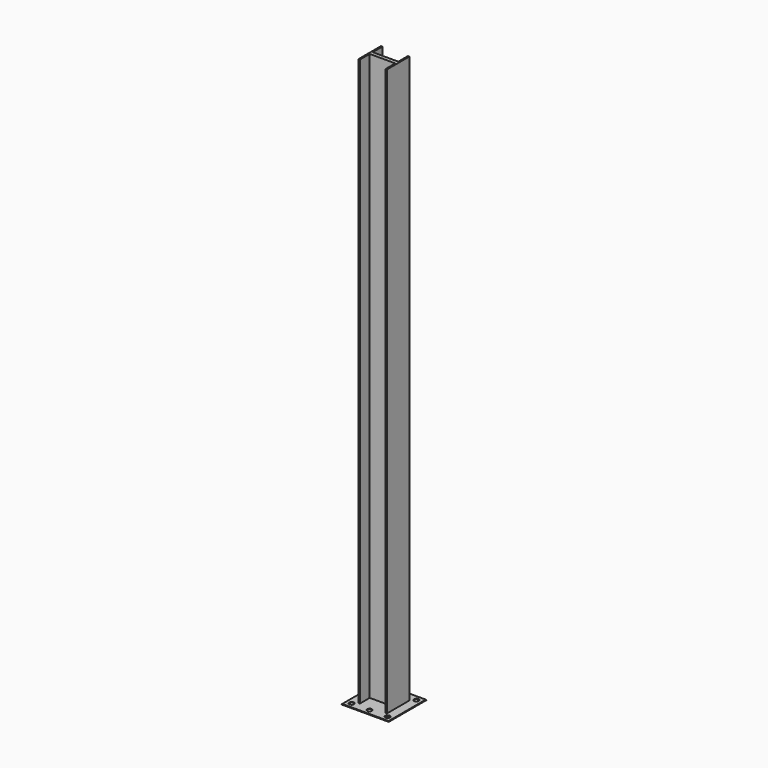
from build123d import *

# Parameters (mm, degrees)
PAD_DEPTH    = 5995
SKETCH001_W  = 500
SKETCH001_H  = 500
PAD001_DEPTH = 5
CHAMFER_SIZE = 4.5
SKETCH002_R  = 25
POCKET_DEPTH = 5
FILLET_R     = 2.5
FILLET001_R  = 2.5
FILLET002_R  = 2.5
FILLET003_R  = 2.5


with BuildPart() as part:
    # Sketch → Pad (new body)
    with BuildSketch(Plane.XY):
        Polygon((135, 20), (-135, 20), (-135, 150), (-150, 150), (-150, -150), (-135, -150), (-135, -20), (135, -20), (135, -150), (150, -150), (150, 150), (135, 150), align=None)
    extrude(amount=PAD_DEPTH)

    # Sketch001 → Pad001 (join)
    with BuildSketch(Plane.XY):
        Rectangle(SKETCH001_W, SKETCH001_H)
    extrude(amount=-PAD001_DEPTH)

    # Chamfer
    chamfer_edges = [part.edges().sort_by_distance(p)[0] for p in [
        (250, 0, 0),
        (0, -250, 0),
        (0, 250, 0),
        (-250, 0, 0),
    ]]
    chamfer(chamfer_edges, length=CHAMFER_SIZE)

    # Sketch002 (on Face8 of Chamfer) → Pocket (cut)
    with BuildSketch(Plane.XY):
        with Locations((-190, 190)):
            Circle(SKETCH002_R)
        with Locations((190, 190)):
            Circle(SKETCH002_R)
        with Locations((190, -190)):
            Circle(SKETCH002_R)
        with Locations((-190, -190)):
            Circle(SKETCH002_R)
        with Locations((0, 190)):
            Circle(SKETCH002_R)
        with Locations((0, -190)):
            Circle(SKETCH002_R)
    extrude(amount=-POCKET_DEPTH, mode=Mode.SUBTRACT)

    # Fillet
    fillet_edges = [part.edges().sort_by_distance(p)[0] for p in [
        (150, 150, 2997.5),
        (135, 150, 2997.5),
        (142.5, 150, 0),
        (142.5, 150, 5995),
    ]]
    fillet(fillet_edges, radius=FILLET_R)

    # Fillet001
    fillet001_edges = [part.edges().sort_by_distance(p)[0] for p in [
        (-135, 150, 2997.5),
        (-150, 150, 2997.5),
        (-142.5, 150, 0),
        (-142.5, 150, 5995),
    ]]
    fillet(fillet001_edges, radius=FILLET001_R)

    # Fillet002
    fillet002_edges = [part.edges().sort_by_distance(p)[0] for p in [
        (135, -150, 2997.5),
        (150, -150, 2997.5),
        (142.5, -150, 0),
        (142.5, -150, 5995),
    ]]
    fillet(fillet002_edges, radius=FILLET002_R)

    # Fillet003
    fillet003_edges = [part.edges().sort_by_distance(p)[0] for p in [
        (-150, -150, 2997.5),
        (-135, -150, 2997.5),
        (-142.5, -150, 0),
        (-142.5, -150, 5995),
    ]]
    fillet(fillet003_edges, radius=FILLET003_R)


solid = part.part
